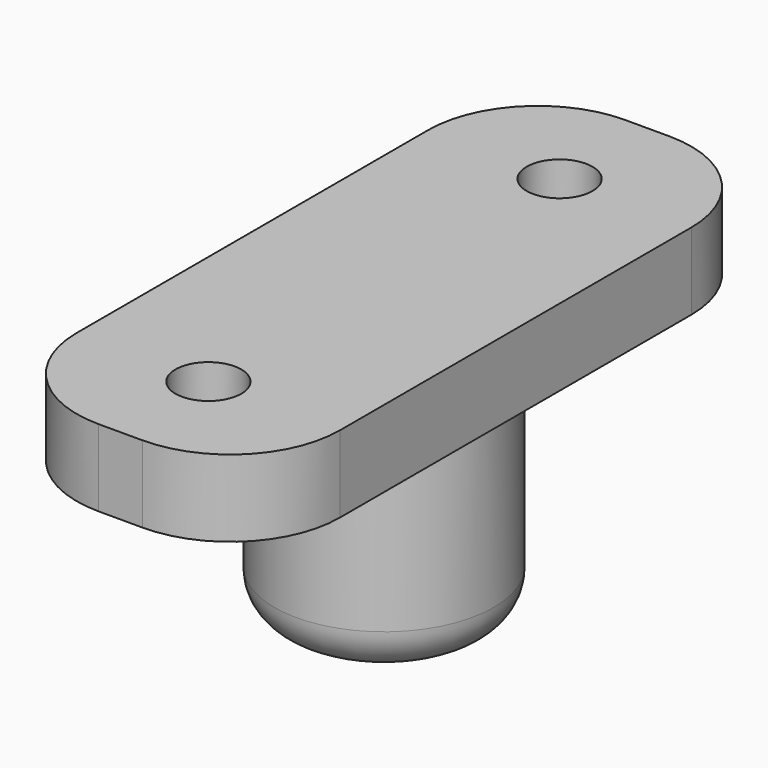
from build123d import *

# Parameters (mm, degrees)
F0_R     = 5
F0_R_2   = 2.5
F1_DEPTH = 10
F2_W     = 12
F2_H     = 30
F2_R     = 1.5
F3_DEPTH = 3.5
F4_R     = 5
F5_R     = 2


with BuildPart() as f1:
    # F0 (on Top) → F1 (new body)
    with BuildSketch(Plane.XY):
        Circle(F0_R)
        Circle(F0_R_2, mode=Mode.SUBTRACT)
    extrude(amount=F1_DEPTH)

    # F2 (on face) → F3 (join)
    with BuildSketch(Plane.XY.offset(10)):
        Rectangle(F2_W, F2_H)
        with Locations((0, -10)):
            Circle(F2_R, mode=Mode.SUBTRACT)
        with Locations((0, 10)):
            Circle(F2_R, mode=Mode.SUBTRACT)
    extrude(amount=F3_DEPTH)

    # F4
    f4_edges = [f1.edges().sort_by_distance(p)[0] for p in [
        (6, 15, 11.75),
        (-6, 15, 11.75),
        (-6, -15, 11.75),
        (6, -15, 11.75),
    ]]
    fillet(f4_edges, radius=F4_R)

    # F5
    f5_edges = [f1.edges().sort_by_distance(p)[0] for p in [
        (-5, 0, 0),
    ]]
    fillet(f5_edges, radius=F5_R)


solid = f1.part
